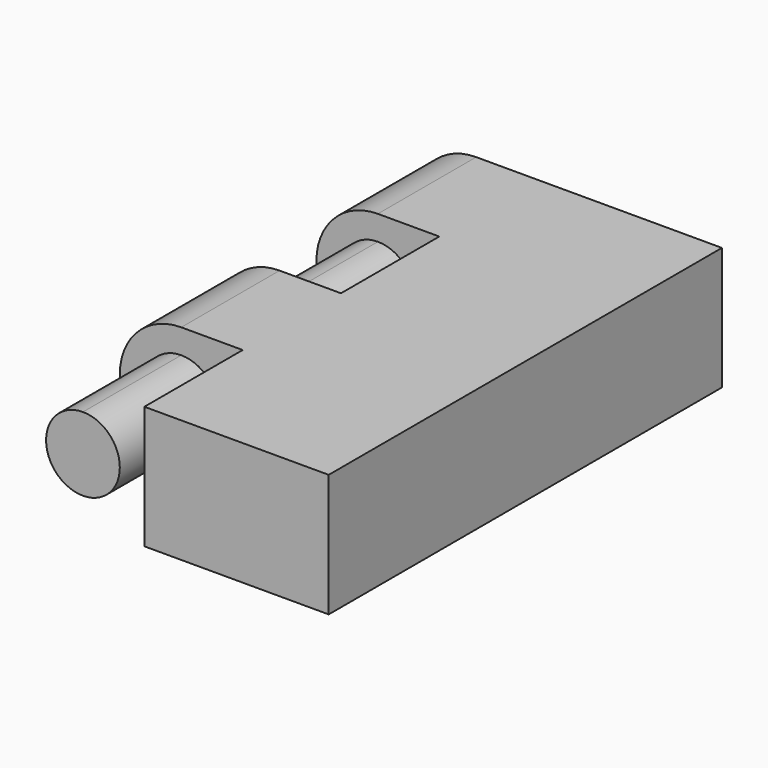
from build123d import *

# Parameters (mm, degrees)
F0_W     = 12.7
F0_H     = 25.4
F1_DEPTH = 6.35
F3_DEPTH = 25.4
F4_DEPTH = 25.4
F5_W     = 3.1755
F5_H     = 6.35
F5_W_2   = 3.1745
F6_DEPTH = 25.4
F7_DEPTH = 25.4


with BuildPart() as f1:
    # F0 (on Top) → F1 (new body)
    with BuildSketch(Plane.XY):
        Rectangle(F0_W, F0_H)
    extrude(amount=F1_DEPTH)

    # F2 (on face) → F3 (join)
    with BuildSketch(Plane(origin=(0, 12.7, 0), x_dir=(-1, 0, 0), z_dir=(0, 1, 0))):
        with BuildLine():
            Line((6.35, 5.08), (6.35, 6.35))
            ThreePointArc((6.35, 6.35), (3.175, 3.175), (6.35, 0))
            Line((6.35, 0), (6.35, 1.27))
            ThreePointArc((6.35, 1.27), (4.445, 3.175), (6.35, 5.08))
        make_face()
        with BuildLine():
            ThreePointArc((-6.35, 0), (-4.104936, 0.929936), (-3.175, 3.175))
            ThreePointArc((-3.175, 3.175), (-4.104936, 5.420064), (-6.35, 6.35))
            Line((-6.35, 6.35), (-6.35, 5.08))
            ThreePointArc((-6.35, 5.08), (-5.002962, 4.522038), (-4.445, 3.175))
            ThreePointArc((-4.445, 3.175), (-5.002962, 1.827962), (-6.35, 1.27))
            Line((-6.35, 1.27), (-6.35, 0))
        make_face()
        with BuildLine():
            ThreePointArc((9.525, 3.175), (8.595064, 5.420064), (6.35, 6.35))
            Line((6.35, 6.35), (6.35, 5.08))
            ThreePointArc((6.35, 5.08), (7.697038, 4.522038), (8.255, 3.175))
            ThreePointArc((8.255, 3.175), (7.697038, 1.827962), (6.35, 1.27))
            Line((6.35, 1.27), (6.35, 0))
            ThreePointArc((6.35, 0), (8.595064, 0.929936), (9.525, 3.175))
        make_face()
        with BuildLine():
            ThreePointArc((-4.445, 3.175), (-5.002962, 4.522038), (-6.35, 5.08))
            Line((-6.35, 5.08), (-6.35, 1.27))
            ThreePointArc((-6.35, 1.27), (-5.002962, 1.827962), (-4.445, 3.175))
        make_face()
    extrude(amount=-F3_DEPTH)

    # F2 (on face) → F4 (cut)
    with BuildSketch(Plane(origin=(0, 12.7, 0), x_dir=(-1, 0, 0), z_dir=(0, 1, 0))):
        with BuildLine():
            Line((-6.35, 1.27), (-6.35, 5.08))
            ThreePointArc((-6.35, 5.08), (-8.255, 3.175), (-6.35, 1.27))
        make_face()
        with BuildLine():
            ThreePointArc((8.255, 3.175), (7.697038, 4.522038), (6.35, 5.08))
            Line((6.35, 5.08), (6.35, 1.27))
            ThreePointArc((6.35, 1.27), (7.697038, 1.827962), (8.255, 3.175))
        make_face()
    extrude(amount=-F4_DEPTH, mode=Mode.SUBTRACT)

    # F5 (on face) → F6 (cut)
    with BuildSketch(Plane(origin=(0, 0, 0), x_dir=(1, 0, 0), z_dir=(0, 0, -1))):
        with Locations((-7.93775, 9.525)):
            Rectangle(F5_W, F5_H)
        with Locations((-7.93775, -3.175)):
            Rectangle(F5_W, F5_H)
        with Locations((-4.76275, 9.525)):
            Rectangle(F5_W_2, F5_H)
        with Locations((-4.76275, -3.175)):
            Rectangle(F5_W_2, F5_H)
    extrude(amount=-F6_DEPTH, mode=Mode.SUBTRACT)

    # F2 (on face) → F7 (join)
    with BuildSketch(Plane(origin=(0, 12.7, 0), x_dir=(-1, 0, 0), z_dir=(0, 1, 0))):
        with BuildLine():
            ThreePointArc((8.255, 3.175), (7.697038, 4.522038), (6.35, 5.08))
            Line((6.35, 5.08), (6.35, 1.27))
            ThreePointArc((6.35, 1.27), (7.697038, 1.827962), (8.255, 3.175))
        make_face()
        with BuildLine():
            Line((6.35, 1.27), (6.35, 5.08))
            ThreePointArc((6.35, 5.08), (4.445, 3.175), (6.35, 1.27))
        make_face()
    extrude(amount=-F7_DEPTH)


solid = f1.part
